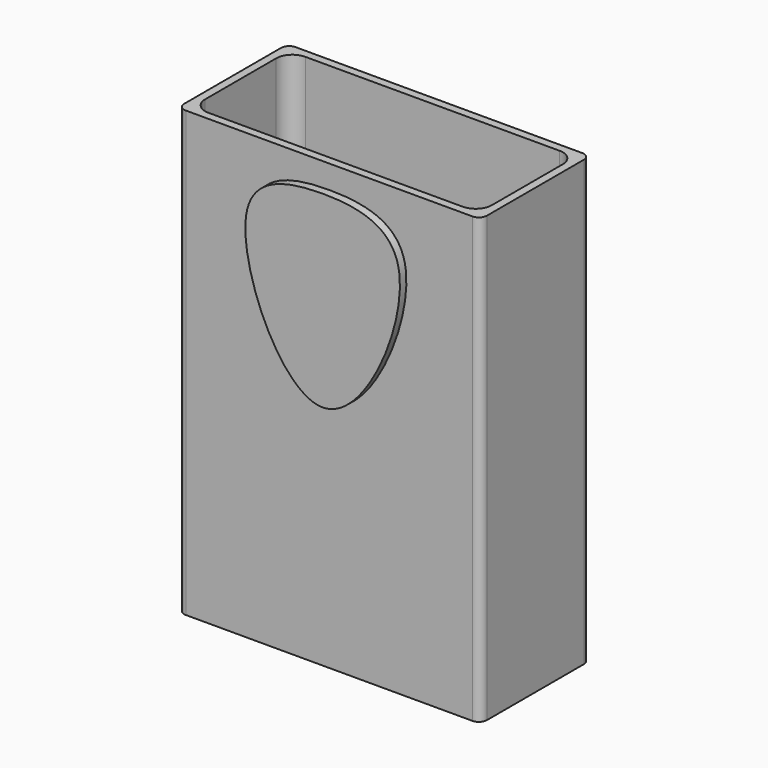
from build123d import *

# Parameters (mm, degrees)
F0_W      = 75
F0_H      = 34
F2_DEPTH  = 110
F3_W      = 71
F3_H      = 30
F4_DEPTH  = 108
F5_R      = 2
F6_R      = 4
F8_DEPTH  = 2
F10_W     = 5
F10_H     = 10
F10_W_2   = 10
F10_H_2   = 5
F11_DEPTH = 2


with BuildPart() as f2:
    # F0 (on Top) → F2 (new body)
    with BuildSketch(Plane.XY):
        Rectangle(F0_W, F0_H)
    extrude(amount=F2_DEPTH)

    # F3 (on face) → F4 (cut)
    with BuildSketch(Plane.XY.offset(110)):
        Rectangle(F3_W, F3_H)
    extrude(amount=-F4_DEPTH, mode=Mode.SUBTRACT)

    # F5
    f5_edges = [f2.edges().sort_by_distance(p)[0] for p in [
        (-37.5, 17, 55),
        (37.5, 17, 55),
        (37.5, -17, 55),
        (-37.5, -17, 55),
    ]]
    fillet(f5_edges, radius=F5_R)

    # F6
    f6_edges = [f2.edges().sort_by_distance(p)[0] for p in [
        (-35.5, 15, 56),
        (-35.5, -15, 56),
        (35.5, 15, 56),
        (35.5, -15, 56),
    ]]
    fillet(f6_edges, radius=F6_R)

    # F7 (on face) → F8 (join)
    with BuildSketch(Plane.XZ.offset(17)):
        with BuildLine():
            add(Edge.make_bspline(
                [(18.7785252929, 94.3015664816), (17.0131724762, 102.694836153), (0, 105.7685942517), (-28.8612375736, 100.5542544303), (0, 32.6291322034), (21.2373277439, 82.6113299209), (18.7785252929, 94.3015664816)],
                knots=[0, 0, 0, 0, 0.2089592717, 0.4179185434, 0.7089592717, 1, 1, 1, 1], degree=3))
        make_face()
    extrude(amount=F8_DEPTH)

    # F9: F2 across plane


with BuildPart() as f2_1:
    add(f2.part)
    add(f2.part.mirror(Plane.XZ))

    # F10 (on face) → F11 (cut)
    with BuildSketch(Plane(origin=(0, 19, 0), x_dir=(-1, 0, 0), z_dir=(0, 1, 0))):
        with Locations((0, 90.4341701968)):
            Rectangle(F10_W, F10_H)
        with Locations((-7.5, 82.9341701968)):
            Rectangle(F10_W_2, F10_H_2)
        with Locations((0, 82.9341701968)):
            Rectangle(F10_W, F10_H_2)
        with Locations((7.5, 82.9341701968)):
            Rectangle(F10_W_2, F10_H_2)
        with Locations((0, 75.4341701968)):
            Rectangle(F10_W, F10_H)
    extrude(amount=-F11_DEPTH, mode=Mode.SUBTRACT)


solid = f2_1.part
